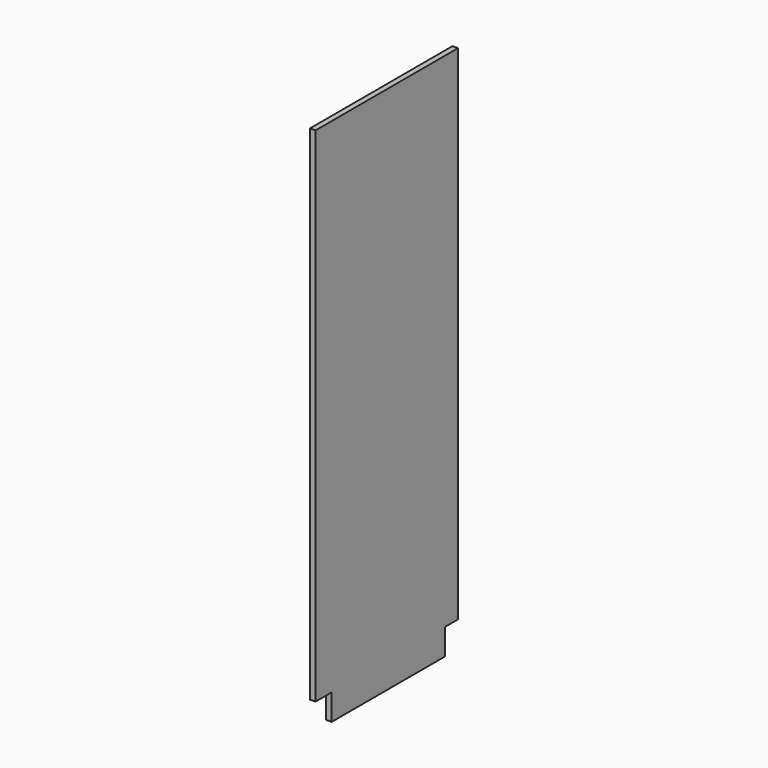
from build123d import *

# Parameters (mm, degrees)
F0_W     = 616
F0_H     = 1828
F1_DEPTH = 19
F2_W     = 56
F2_H     = 90
F2_W_2   = 70
F3_DEPTH = 19.001


with BuildPart() as f1:
    # F0 (on Right) → F1 (new body)
    with BuildSketch(Plane.YZ):
        with Locations((308, 914)):
            Rectangle(F0_W, F0_H)
    extrude(amount=F1_DEPTH)

    # F2 (on Right) → F3 (cut, through all)
    with BuildSketch(Plane.YZ):
        with Locations((588, 45)):
            Rectangle(F2_W, F2_H)
        with Locations((35, 45)):
            Rectangle(F2_W_2, F2_H)
    extrude(amount=F3_DEPTH, mode=Mode.SUBTRACT)


solid = f1.part
